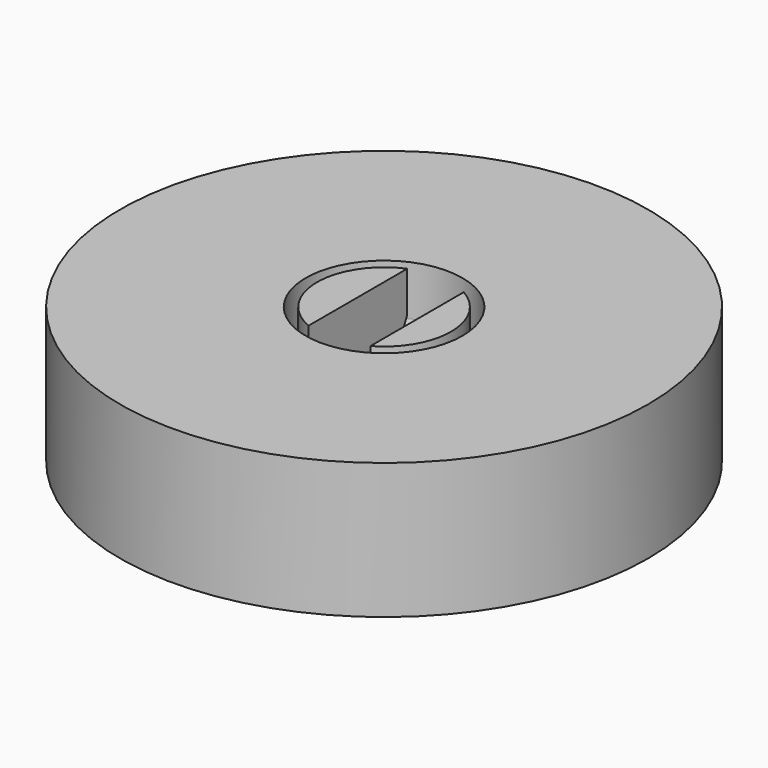
from build123d import *

# Parameters (mm, degrees)
F3_DEPTH = 25


with BuildPart() as f1:
    # F0 (on Front) → F1 (revolve)
    with BuildSketch(Plane.XZ):
        Polygon((0, 38.028415), (0, 0), (15.017891, 0), (15.017891, 18.041525), (18.79167, 26.612796), (18.79167, 38.028415), align=None)
        Polygon((73.986508, 38.028415), (21.968598, 38.028415), (21.968598, 24.0178), (18.79167, 11.996607), (18.79167, 0), (73.986508, 0), align=None)
    revolve(axis=Axis((0, 0, 19.014208), (0, 0, 1)))

    # F2 (on face) → F3 (cut)
    with BuildSketch(Plane.XY.offset(38.028415)):
        with BuildLine():
            ThreePointArc((9.257966, 16.352888), (1.061574, 18.761661), (-7.35422, 17.29284))
            Line((-7.35422, 17.29284), (-7.35422, -17.29284))
            ThreePointArc((-7.35422, -17.29284), (1.061574, -18.761661), (9.257966, -16.352888))
            Line((9.257966, -16.352888), (9.257966, 16.352888))
        make_face()
    extrude(amount=-F3_DEPTH, mode=Mode.SUBTRACT)


solid = f1.part
